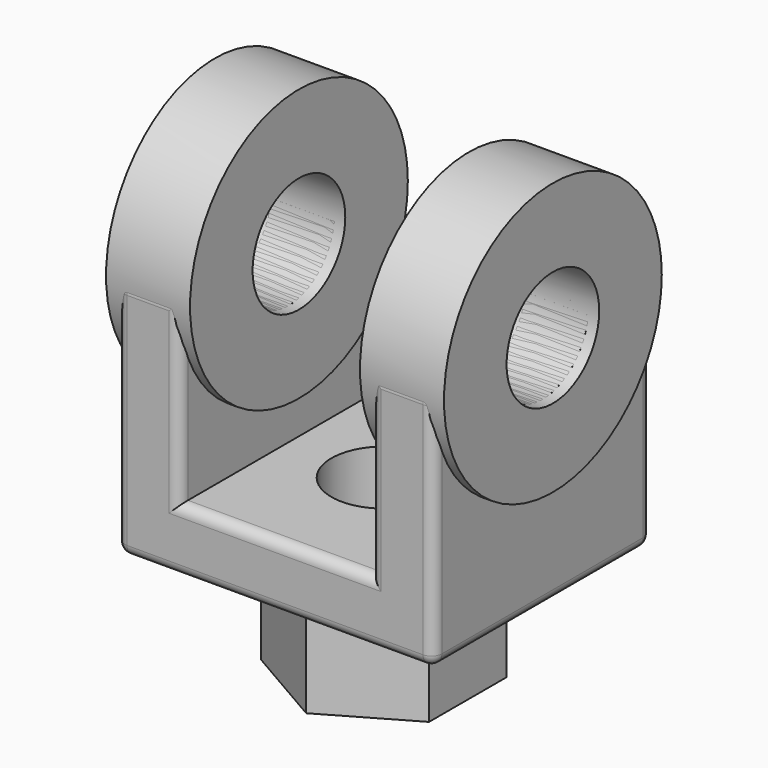
from build123d import *

# Parameters (mm, degrees)
F0_R      = 41.148
F1_DEPTH  = 51.08575
F4_W      = 51.3715
F4_H      = 101.6
F5_DEPTH  = 63.5
F7_DEPTH  = 41.148
F8_DEPTH  = 31.75
F9_R      = 3.175
F10_R     = 17.5006
F11_DEPTH = 63.5
F12_R     = 15.875
F13_DEPTH = 50.8


with BuildPart() as f1:
    # F0 (on Right) → F1 (new body, symmetric)
    with BuildSketch(Plane.YZ):
        Circle(F0_R)
    extrude(amount=F1_DEPTH, both=True)

    # F4 (on Front) → F5 (cut, symmetric)
    with BuildSketch(Plane.XZ):
        Rectangle(F4_W, F4_H)
    extrude(amount=F5_DEPTH, both=True, mode=Mode.SUBTRACT)


with BuildPart() as f7:
    # F6 (on Front) → F7 (new body, symmetric)
    with BuildSketch(Plane.XZ):
        Polygon((-28.86075, 0), (-47.91075, 0), (-47.91075, -72.898), (0, -72.898), (0, -53.848), (-28.86075, -53.848), align=None)
        Polygon((0, -53.848), (0, -72.898), (47.91075, -72.898), (47.91075, 0), (28.86075, 0), (28.86075, -53.848), align=None)
    extrude(amount=F7_DEPTH, both=True)

    # F3 (on offset) → F8 (join, through all)
    with BuildSketch(Plane.XY.offset(-104.648)):
        Polygon((-25.4139085214, -14.6405801456), (-0.0278399285, -29.3293804618), (25.3860685929, -14.6888003162), (25.4139085214, 14.6405801456), (0.0278399285, 29.3293804618), (-25.3860685929, 14.6888003162), align=None)
    extrude(amount=F8_DEPTH)

    # F9
    f9_edges = [f7.edges().sort_by_distance(p)[0] for p in [
        (47.91075, 0, -72.898),
        (47.91075, 41.148, -36.449),
        (47.91075, 0, 0),
        (47.91075, -41.148, -36.449),
        (-47.91075, 0, 0),
        (-47.91075, 41.148, -36.449),
        (-47.91075, 0, -72.898),
        (-47.91075, -41.148, -36.449),
        (-38.38575, -41.148, 0),
        (0, -41.148, -72.898),
        (38.38575, -41.148, 0),
        (28.86075, -41.148, -26.924),
        (0, -41.148, -53.848),
        (-28.86075, -41.148, -26.924),
        (-38.38575, 41.148, 0),
        (0, 41.148, -72.898),
        (38.38575, 41.148, 0),
        (28.86075, 41.148, -26.924),
        (0, 41.148, -53.848),
        (-28.86075, 41.148, -26.924),
    ]]
    fillet(f9_edges, radius=F9_R)


with BuildPart() as f11_tool:
    # F10 (on Right) → F11 (new body, symmetric)
    with BuildSketch(Plane.YZ):
        Circle(F10_R)
    extrude(amount=F11_DEPTH, both=True)


with BuildPart() as f1_1:
    add(f1.part)

    # F11: cut by f11_tool
    add(f11_tool.part, mode=Mode.SUBTRACT)


with BuildPart() as f7_1:
    add(f7.part)

    # F11: cut by f11_tool
    add(f11_tool.part, mode=Mode.SUBTRACT)

    # F12 (on offset) → F13 (cut, through all)
    with BuildSketch(Plane.XY.offset(-104.648)):
        Circle(F12_R)
    extrude(amount=F13_DEPTH, mode=Mode.SUBTRACT)


solid = Compound([f1_1.part, f7_1.part])
